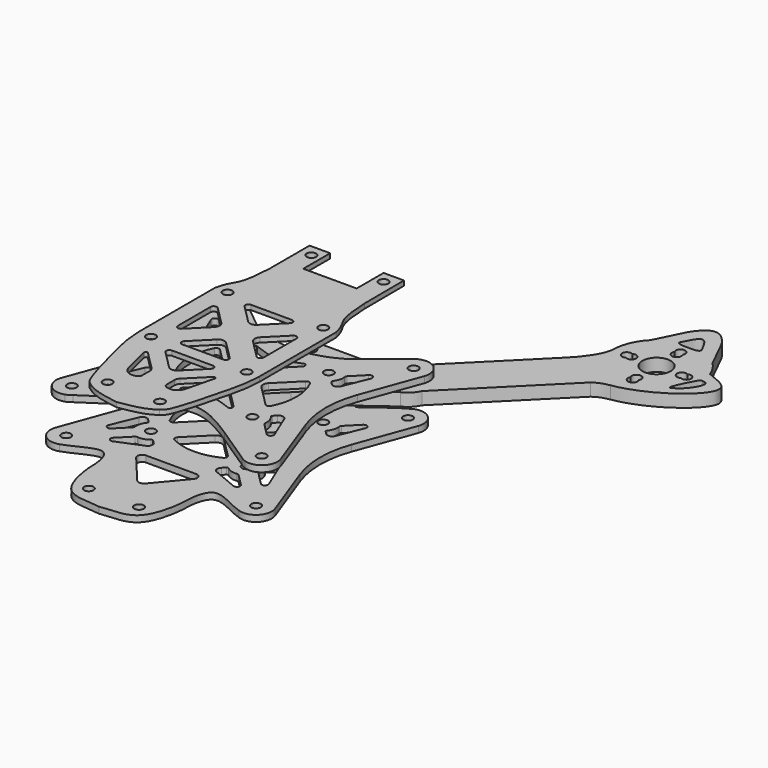
from build123d import *

# Parameters (mm, degrees)
F0_R     = 1.5
F2_DEPTH = 2
F4_START = 9
F1_R     = 1.5
F1_R_2   = 4.5
F4_DEPTH = 4
F7_START = 27
F6_R     = 1.5
F7_DEPTH = 1.5
F8_START = 13
F5_R     = 1.5
F8_DEPTH = 2


with BuildPart() as f2:
    # F0 (on Top) → F2 (new body)
    with BuildSketch(Plane.XY):
        with BuildLine():
            add(Edge.make_bspline(
                [(-28.6583781917, 34.9897926187), (-15.5486166781, 28.1028037119), (-15.2531150875, 20.3287351618), (-15.0275807662, 35.7869569874)],
                knots=[0, 0, 0, 0, 13.3993521208, 13.3993521208, 13.3993521208, 13.3993521208], degree=3))
            ThreePointArc((-28.6583781917, 34.9897926187), (-33.8221464936, 33.7484215192), (-34.9557469237, 28.5599289301))
            Line((-34.9557469237, 28.5599289301), (-28.2756956157, 10.3132583357))
            ThreePointArc((-28.2756956157, 10.3132583357), (-26.4471685959, -0.0001237753), (-28.275620297, -10.3135192398))
            Line((-28.275620297, -10.3135192398), (-34.9643093506, -28.5841972954))
            ThreePointArc((-34.9643093506, -28.5841972954), (-33.8042472377, -33.7668376626), (-28.6342115553, -34.9818423231))
            add(Edge.make_bspline(
                [(-28.6342115553, -34.9818423231), (-24.618186279, -33.7313609326), (-16.0789970617, -27.2242334086), (-15, -36.8342951322), (-15, -39.1599717256)],
                knots=[0, 0, 0, 0, 0.5448668576, 1, 1, 1, 1], degree=3))
            add(Edge.make_bspline(
                [(-15, -39.1599717256), (-15, -41.6510662719), (-13.1815742076, -55.8873137732), (-3.711172013, -54.4448881598), (0, -55.0729185343)],
                knots=[0, 0, 0, 0, 0.5234198862, 1, 1, 1, 1], degree=3))
            add(Edge.make_bspline(
                [(14.9999991171, -39.1548253089), (14.9999991171, -41.6510662713), (13.182812541, -55.8861981445), (3.7108230399, -54.4449472154), (0, -55.0729185343)],
                knots=[0, 0, 0, 0, 0.5234647005, 1, 1, 1, 1], degree=3))
            add(Edge.make_bspline(
                [(28.6583781917, -34.9900259491), (24.6324091286, -33.7351416581), (16.1017292361, -27.2449478935), (14.9999991171, -36.8342951322), (14.9999991171, -39.1548253089)],
                knots=[0, 0, 0, 0, 0.5451839423, 1, 1, 1, 1], degree=3))
            ThreePointArc((28.6583781917, -34.9900259491), (33.8221464936, -33.7486548496), (34.9557469237, -28.5601622605))
            Line((34.9557469237, -28.5601622605), (28.2756956157, -10.3134916662))
            ThreePointArc((28.2756956157, -10.3134916662), (26.4471685959, -0.0001095551), (28.275620297, 10.3132859094))
            Line((28.275620297, 10.3132859094), (34.9643093506, 28.5839639649))
            ThreePointArc((34.9643093506, 28.5839639649), (33.8042472377, 33.7666043322), (28.6342115553, 34.9816089927))
            add(Edge.make_bspline(
                [(15.0274804489, 35.7867377657), (15.2513136065, 20.3288391518), (15.5247895094, 28.1030653878), (28.6342115553, 34.9816089927)],
                knots=[0.5358735163, 0.5358735163, 0.5358735163, 0.5358735163, 13.9139571898, 13.9139571898, 13.9139571898, 13.9139571898], degree=3))
            Line((15.0274804489, 35.7867377657), (15.004580659, 45.7622549241))
            ThreePointArc((15.004580659, 45.7622549241), (14.417175329, 47.1734995991), (13.0045859288, 47.7576637377))
            Line((13.0045859288, 47.7576637377), (0, 47.7576637377))
            Line((0, 47.7576637377), (-13.0046027346, 47.7576637377))
            ThreePointArc((-13.0046027346, 47.7576637377), (-14.4171861725, 47.1735055476), (-15.0045974261, 45.7622717685))
            Line((-15.0045974261, 45.7622717685), (-15.0275807662, 35.7869569874))
        make_face()
        with Locations((-30.25, -30.2501166652)):
            Circle(F0_R, mode=Mode.SUBTRACT)
        with Locations((-7.9883679544, -49.0513862836)):
            Circle(F0_R, mode=Mode.SUBTRACT)
        with BuildLine():
            ThreePointArc((-23.8517090122, -20.3162917715), (-25.1141961389, -20.44078145), (-25.4828700073, -19.2269235489))
            Line((-25.4828700073, -19.2269235489), (-22.1833207357, -11.2508054318))
            ThreePointArc((-22.1833207357, -11.2508054318), (-21.0902108457, -10.3530865374), (-19.736579243, -10.7635374222))
            Line((-19.736579243, -10.7635374222), (-18.8553009264, -11.6448157387))
            ThreePointArc((-18.8553009264, -11.6448157387), (-18.7090370991, -11.9848506739), (-18.8367068235, -12.3322946346))
            Line((-18.8367068235, -12.3322946346), (-18.8542943682, -12.3518952957))
            ThreePointArc((-18.8542943682, -12.3518952957), (-19.6877326512, -13.9473680649), (-19.8489637612, -15.7401751538))
            Line((-19.8489637612, -15.7401751538), (-19.8303976916, -15.855047168))
            ThreePointArc((-19.8303976916, -15.855047168), (-19.8571321349, -16.2053481855), (-20.0404595752, -16.5050423346))
            Line((-20.0404595752, -16.5050423346), (-23.8517090122, -20.3162917715))
        make_face(mode=Mode.SUBTRACT)
        with BuildLine():
            Line((-11.2506887665, -22.183437401), (-19.2268068836, -25.4829866726))
            ThreePointArc((-19.2268068836, -25.4829866726), (-20.4406647847, -25.1143128042), (-20.3161751062, -23.8518256775))
            Line((-20.3161751062, -23.8518256775), (-16.5049256693, -20.0405762405))
            ThreePointArc((-16.5049256693, -20.0405762405), (-16.2052315202, -19.8572488002), (-15.8549305027, -19.8305143569))
            Line((-15.8549305027, -19.8305143569), (-15.7400584885, -19.8490804265))
            ThreePointArc((-15.7400584885, -19.8490804265), (-13.9472513996, -19.6878493165), (-12.3517786304, -18.8544110335))
            Line((-12.3517786304, -18.8544110335), (-12.3321779693, -18.8368234888))
            ThreePointArc((-12.3321779693, -18.8368234888), (-11.9847340086, -18.7091537644), (-11.6446990734, -18.8554175917))
            Line((-11.6446990734, -18.8554175917), (-10.7634207569, -19.7366959083))
            ThreePointArc((-10.7634207569, -19.7366959083), (-10.3529698721, -21.090327511), (-11.2506887665, -22.183437401))
        make_face(mode=Mode.SUBTRACT)
        with Locations((-15.25, -15.2501166652)):
            Circle(F0_R, mode=Mode.SUBTRACT)
        with BuildLine():
            ThreePointArc((-7.7891662678, -15.2385185844), (-8.2896004475, -14.5054745068), (-8.0070904439, -13.6640613586))
            Line((-8.0070904439, -13.6640613586), (-1.4142135624, -7.0711844771))
            ThreePointArc((-1.4142135624, -7.0711844771), (0, -6.4853980395), (1.4142135624, -7.0711844771))
            Line((1.4142135624, -7.0711844771), (8.0039929944, -13.6609639091))
            ThreePointArc((8.0039929944, -13.6609639091), (8.287442711, -14.5051758495), (7.7853439372, -15.2406582515))
            Line((7.7853439372, -15.2406582515), (7.7684472975, -15.2501166652))
            ThreePointArc((7.7684472975, -15.2501166652), (0, -17.1147675064), (-7.7684472975, -15.2501166652))
            Line((-7.7684472975, -15.2501166652), (-7.7891662678, -15.2385185844))
        make_face(mode=Mode.SUBTRACT)
        with Locations((7.9887419921, -49.0510061511)):
            Circle(F0_R, mode=Mode.SUBTRACT)
        with BuildLine():
            Line((-1.3419333826, -38.0912425724), (-9.1892145959, -28.7162793043))
            ThreePointArc((-9.1892145959, -28.7162793043), (-9.3980651634, -27.1187373235), (-8.0389859823, -26.2534843436))
            Line((-8.0389859823, -26.2534843436), (8.0389859824, -26.2534843436))
            ThreePointArc((8.0389859824, -26.2534843436), (9.3980651635, -27.1187373235), (9.1892145961, -28.7162793043))
            Line((9.1892145961, -28.7162793043), (1.3419333826, -38.0912425724))
            ThreePointArc((1.3419333826, -38.0912425724), (0, -38.717981785), (-1.3419333826, -38.0912425724))
        make_face(mode=Mode.SUBTRACT)
        with Locations((30.25, -30.2501166652)):
            Circle(F0_R, mode=Mode.SUBTRACT)
        with BuildLine():
            ThreePointArc((20.3161751064, -23.8518256775), (20.4406647849, -25.1143128042), (19.2268068838, -25.4829866726))
            Line((19.2268068838, -25.4829866726), (11.2506887667, -22.183437401))
            ThreePointArc((11.2506887667, -22.183437401), (10.3529698723, -21.090327511), (10.7634207571, -19.7366959083))
            Line((10.7634207571, -19.7366959083), (11.6446990736, -18.8554175917))
            ThreePointArc((11.6446990736, -18.8554175917), (11.9847340088, -18.7091537644), (12.3321779695, -18.8368234889))
            Line((12.3321779695, -18.8368234889), (12.3517786306, -18.8544110335))
            ThreePointArc((12.3517786306, -18.8544110335), (13.9472513998, -19.6878493165), (15.7400584887, -19.8490804265))
            Line((15.7400584887, -19.8490804265), (15.8549305029, -19.8305143569))
            ThreePointArc((15.8549305029, -19.8305143569), (16.2052315204, -19.8572488002), (16.5049256694, -20.0405762405))
            Line((16.5049256694, -20.0405762405), (20.3161751064, -23.8518256775))
        make_face(mode=Mode.SUBTRACT)
        with Locations((15.25, -15.2501166652)):
            Circle(F0_R, mode=Mode.SUBTRACT)
        with BuildLine():
            ThreePointArc((19.7365792431, -10.7635374222), (21.0902108459, -10.3530865374), (22.1833207359, -11.2508054318))
            Line((22.1833207359, -11.2508054318), (25.4828700075, -19.2269235489))
            ThreePointArc((25.4828700075, -19.2269235489), (25.1141961391, -20.44078145), (23.8517090123, -20.3162917715))
            Line((23.8517090123, -20.3162917715), (20.0404595754, -16.5050423345))
            ThreePointArc((20.0404595754, -16.5050423345), (19.8571321351, -16.2053481855), (19.8303976918, -15.855047168))
            Line((19.8303976918, -15.855047168), (19.8489637614, -15.7401751538))
            ThreePointArc((19.8489637614, -15.7401751538), (19.6877326514, -13.9473680649), (18.8542943684, -12.3518952957))
            Line((18.8542943684, -12.3518952957), (18.8367068237, -12.3322946346))
            ThreePointArc((18.8367068237, -12.3322946346), (18.7090370992, -11.9848506739), (18.8553009266, -11.6448157387))
            Line((18.8553009266, -11.6448157387), (19.7365792431, -10.7635374222))
        make_face(mode=Mode.SUBTRACT)
        with BuildLine():
            ThreePointArc((-18.8367068237, 12.3320613042), (-18.7090370992, 11.9846173435), (-18.8553009266, 11.6445824083))
            Line((-18.8553009266, 11.6445824083), (-19.7365362913, 10.7633470436))
            ThreePointArc((-19.7365362913, 10.7633470436), (-21.0901761322, 10.3528977995), (-22.1832842059, 11.2506305772))
            Line((-22.1832842059, 11.2506305772), (-25.4825923023, 19.2264185813))
            ThreePointArc((-25.4825923023, 19.2264185813), (-25.1139094958, 20.4402692432), (-23.8514270259, 20.3157764546))
            Line((-23.8514270259, 20.3157764546), (-20.0404595754, 16.5048090041))
            ThreePointArc((-20.0404595754, 16.5048090041), (-19.8571321351, 16.2051148551), (-19.8303976918, 15.8548138375))
            Line((-19.8303976918, 15.8548138375), (-19.8489637614, 15.7399418234))
            ThreePointArc((-19.8489637614, 15.7399418234), (-19.6877326514, 13.9471347345), (-18.8542943684, 12.3516619653))
            Line((-18.8542943684, 12.3516619653), (-18.8367068237, 12.3320613042))
        make_face(mode=Mode.SUBTRACT)
        with BuildLine():
            ThreePointArc((-13.6608472446, -8.003992994), (-14.5036917812, -8.2876310143), (-15.2391898189, -7.7877509525))
            Line((-15.2391898189, -7.7877509525), (-15.25, -7.7685639629))
            ThreePointArc((-15.25, -7.7685639629), (-17.1146508411, -0.0001166652), (-15.25, 7.7683306325))
            Line((-15.25, 7.7683306325), (-15.2404918609, 7.7853161021))
            ThreePointArc((-15.2404918609, 7.7853161021), (-14.5050397719, 8.2874058078), (-13.6608472436, 8.0039929945))
            Line((-13.6608472436, 8.0039929945), (-7.0710678122, 1.4142135631))
            ThreePointArc((-7.0710678122, 1.4142135631), (-6.4852813746, 7e-10), (-7.0710678122, -1.4142135616))
            Line((-7.0710678122, -1.4142135616), (-13.6608472446, -8.003992994))
        make_face(mode=Mode.SUBTRACT)
        with Locations((-15.25, 15.2498833348)):
            Circle(F0_R, mode=Mode.SUBTRACT)
        with Locations((-30.25, 30.2498833348)):
            Circle(F0_R, mode=Mode.SUBTRACT)
        with BuildLine():
            ThreePointArc((-7.7684472975, 20.1190520582), (-9.4080875359, 20.738653917), (-8.9382902045, 22.4273270773))
            Line((-8.9382902045, 22.4273270773), (-1.0607341799, 27.3555574137))
            ThreePointArc((-1.0607341799, 27.3555574137), (0, 27.6600212154), (1.0607341798, 27.3555574137))
            Line((1.0607341798, 27.3555574137), (8.9382902045, 22.4273270773))
            ThreePointArc((8.9382902045, 22.4273270773), (9.4121419995, 20.7467834584), (7.7853439372, 20.1125197568))
            ThreePointArc((7.7853439372, 20.1125197568), (0.0090577, 21.5667556739), (-7.7684472975, 20.1190520582))
        make_face(mode=Mode.SUBTRACT)
        with Locations((-11.5, 43.9576637377)):
            Circle(F0_R, mode=Mode.SUBTRACT)
        with BuildLine():
            Line((7.0711844771, 1.4142135624), (13.6609192274, 8.0039483127))
            ThreePointArc((13.6609192274, 8.0039483127), (14.505066125, 8.2873761908), (15.2404918613, 7.7853161015))
            Line((15.2404918613, 7.7853161015), (15.25, 7.7683306325))
            ThreePointArc((15.25, 7.7683306325), (17.1146508411, -0.0001166652), (15.25, -7.7685639629))
            Line((15.25, -7.7685639629), (15.2406272112, -7.7853078356))
            ThreePointArc((15.2406272112, -7.7853078356), (14.5051455326, -8.2874101247), (13.6609319284, -8.0039610137))
            Line((13.6609319284, -8.0039610137), (7.0711844771, -1.4142135624))
            ThreePointArc((7.0711844771, -1.4142135624), (6.4853980395, 0), (7.0711844771, 1.4142135624))
        make_face(mode=Mode.SUBTRACT)
        with BuildLine():
            ThreePointArc((7.7853439372, 15.240424921), (8.287442711, 14.5049425191), (8.0039929944, 13.6607305787))
            Line((8.0039929944, 13.6607305787), (1.4142135624, 7.0709511466))
            ThreePointArc((1.4142135624, 7.0709511466), (0, 6.485164709), (-1.4142135624, 7.0709511466))
            Line((-1.4142135624, 7.0709511466), (-8.0039526994, 13.6606902837))
            ThreePointArc((-8.0039526994, 13.6606902837), (-8.2874146408, 14.5049386339), (-7.7852942122, 15.2404527562))
            Line((-7.7852942122, 15.2404527562), (-7.7684472975, 15.2498833348))
            ThreePointArc((-7.7684472975, 15.2498833348), (0, 17.1145341759), (7.7684472975, 15.2498833348))
            Line((7.7684472975, 15.2498833348), (7.7853439372, 15.240424921))
        make_face(mode=Mode.SUBTRACT)
        with Locations((15.25, 15.2498833348)):
            Circle(F0_R, mode=Mode.SUBTRACT)
        with BuildLine():
            Line((19.8247636463, 15.7857020095), (19.8053771981, 15.9004384214))
            ThreePointArc((19.8053771981, 15.9004384214), (19.8296077774, 16.2509215341), (20.0107889822, 16.551918053))
            Line((20.0107889822, 16.551918053), (23.8084963092, 20.4042927407))
            ThreePointArc((23.8084963092, 20.4042927407), (25.0694330234, 20.5382137296), (25.4479640984, 19.3280028167))
            Line((25.4479640984, 19.3280028167), (22.2099603067, 11.3048808763))
            ThreePointArc((22.2099603067, 11.3048808763), (21.1235519909, 10.3975106284), (19.7659171564, 10.7980495795))
            Line((19.7659171564, 10.7980495795), (18.8636943539, 11.6874693336))
            ThreePointArc((18.8636943539, 11.6874693336), (18.7150142286, 12.0261665213), (18.8398119888, 12.3743720407))
            Line((18.8398119888, 12.3743720407), (18.8575930357, 12.3945216077))
            ThreePointArc((18.8575930357, 12.3945216077), (19.6770690669, 13.9943151832), (19.8247636463, 15.7857020095))
        make_face(mode=Mode.SUBTRACT)
        with Locations((11.5, 43.9576637377)):
            Circle(F0_R, mode=Mode.SUBTRACT)
        with Locations((30.25, 30.2498833348)):
            Circle(F0_R, mode=Mode.SUBTRACT)
    extrude(amount=F2_DEPTH)


with BuildPart() as f4:
    # F1 (on Top) → F4 (new body)
    with BuildSketch(Plane.XY.offset(F4_START)):
        with BuildLine():
            add(Edge.make_bspline(
                [(53.8403756487, 63.7304752458), (55.416769934, 65.2037108877), (59.7647969246, 70.0172054505), (60.2543953395, 74.245)],
                knots=[0, 0, 0, 0, 12.3164475155, 12.3164475155, 12.3164475155, 12.3164475155], degree=3))
            Line((53.8403756487, 63.7304752458), (27.2135911477, 37.1036907448))
            ThreePointArc((27.2135911477, 37.1036907448), (24.9560944806, 35.5533008589), (23.4057045947, 33.2958041918))
            Line((23.4057045947, 33.2958041918), (13.6185183249, 19.9730840161))
            ThreePointArc((13.6185183249, 19.9730840161), (11.3998018999, 18.428606374), (10.3093393921, 15.9549440526))
            Line((10.3093393921, 15.9549440526), (6.3693953395, 12.015))
            Line((6.3693953395, 12.015), (0.0093953395, 5.655))
            Line((0.0093953395, 5.655), (0.0093953395, 0))
            Line((0.0093953395, 0), (5.6643953395, 0))
            Line((5.6643953395, 0), (12.0243953395, 6.36))
            Line((12.0243953395, 6.36), (15.964339392, 10.2999440526))
            ThreePointArc((15.964339392, 10.2999440526), (18.4380017135, 11.3904065604), (19.9824793556, 13.6091229854))
            Line((19.9824793556, 13.6091229854), (33.3051995313, 23.3963092552))
            ThreePointArc((33.3051995313, 23.3963092552), (35.5626961984, 24.9466991411), (37.1130860843, 27.2041958082))
            Line((37.1130860843, 27.2041958082), (66.9401645076, 57.0312742315))
            add(Edge.make_bspline(
                [(66.9401645076, 57.0312742315), (68.6477067804, 58.2756902015), (70.0108799076, 58.6081723607), (71.7741356677, 58.9447283697)],
                knots=[0, 0, 0, 0, 5.1989021836, 5.1989021836, 5.1989021836, 5.1989021836], degree=3))
            add(Edge.make_bspline(
                [(87.3744447875, 79.1301102834), (90.2940253606, 77.9256662064), (101.094192454, 74.7425524374), (82.4600401258, 60.5968105531), (71.7741356677, 58.9447283697)],
                knots=[0, 0, 0, 0, 0.3577567319, 1, 1, 1, 1], degree=3))
            ThreePointArc((87.3744447875, 79.1301102834), (86.0340756952, 81.8106546787), (84.1538902761, 84.1444949366))
            Line((84.1538902761, 84.1444949366), (79.5043953395, 93.5436398484))
            add(Edge.make_bspline(
                [(69.0043953395, 93.5436398484), (70.5043953395, 95.8870138718), (74.2543953395, 99.6029861282), (78.0043953395, 95.8870138718), (79.5043953395, 93.5436398484)],
                knots=[0, 0, 0, 0, 0.5, 1, 1, 1, 1], degree=3))
            Line((69.0043953395, 93.5436398484), (64.3549004029, 84.1444949366))
            ThreePointArc((64.3549004029, 84.1444949366), (61.3200818843, 79.6025680531), (60.2543953395, 74.245))
        make_face()
        with Locations((15.2593953395, 15.25)):
            Circle(F1_R, mode=Mode.SUBTRACT)
        with Locations((30.2593953395, 30.25)):
            Circle(F1_R, mode=Mode.SUBTRACT)
        with BuildLine():
            ThreePointArc((75.5534334452, 65.495), (74.2543953395, 63.245), (72.9553572338, 65.495))
            ThreePointArc((72.9553572338, 65.495), (74.2543953395, 67.745), (75.5534334452, 65.495))
        make_face(mode=Mode.SUBTRACT)
        with BuildLine():
            ThreePointArc((65.5043953395, 75.5440381057), (67.7543953395, 74.245), (65.5043953395, 72.9459618943))
            ThreePointArc((65.5043953395, 72.9459618943), (63.2543953395, 74.245), (65.5043953395, 75.5440381057))
        make_face(mode=Mode.SUBTRACT)
        with Locations((74.2543953395, 74.245)):
            Circle(F1_R_2, mode=Mode.SUBTRACT)
        with BuildLine():
            add(Edge.make_bspline(
                [(84.3233764172, 67.22047925), (83.1130451017, 66.7420174785), (87.2368096834, 74.898031412), (87.6573771238, 75.0989317894), (88.2301732404, 75.068184101)],
                knots=[0, 0, 0, 0, 0.6966488034, 1, 1, 1, 1], degree=3))
            add(Edge.make_bspline(
                [(88.2301732404, 75.068184101), (89.0356525779, 75.0120133162), (91.0430967864, 74.6448569015), (87.6032039523, 68.5030221939), (84.3233764172, 67.22047925)],
                knots=[0, 0, 0, 0, 0.3063736767, 1, 1, 1, 1], degree=3))
        make_face(mode=Mode.SUBTRACT)
        with BuildLine():
            ThreePointArc((83.0043953395, 72.9459618943), (80.7543953395, 74.245), (83.0043953395, 75.5440381057))
            ThreePointArc((83.0043953395, 75.5440381057), (85.2543953395, 74.245), (83.0043953395, 72.9459618943))
        make_face(mode=Mode.SUBTRACT)
        with BuildLine():
            ThreePointArc((75.5534334452, 82.995), (74.2543953395, 80.745), (72.9553572338, 82.995))
            ThreePointArc((72.9553572338, 82.995), (74.2543953395, 85.245), (75.5534334452, 82.995))
        make_face(mode=Mode.SUBTRACT)
        with BuildLine():
            add(Edge.make_bspline(
                [(70.7613052703, 87.8022239698), (70.880660109, 86.809372308), (74.2543953395, 86.809372308), (77.62813057, 86.809372308), (77.7474854087, 87.8022239698)],
                knots=[0, 0, 0, 0, 0.5, 1, 1, 1, 1], degree=3))
            add(Edge.make_bspline(
                [(70.7613052703, 87.8022239698), (71.9256686267, 90.1515499989), (74.2543953395, 94.8502020569), (76.5831220523, 90.1515499989), (77.7474854087, 87.8022239698)],
                knots=[0, 0, 0, 0, 0.5, 1, 1, 1, 1], degree=3))
        make_face(mode=Mode.SUBTRACT)
    extrude(amount=F4_DEPTH)


with BuildPart() as f7:
    # F6 (on Top) → F7 (new body)
    with BuildSketch(Plane.XY.offset(F7_START)):
        with BuildLine():
            add(Edge.make_bspline(
                [(-19.25, -15.2218541075), (-19.0684905374, -19.7268529833), (-17.9623264747, -24.6907042809), (-13.2785718821, -43.084666195), (-11.6053951728, -44.1968771124), (-11.0003547743, -44.5749795424)],
                knots=[0, 0, 0, 0, 0.3683029461, 0.8298524693, 1, 1, 1, 1], degree=3))
            add(Edge.make_bspline(
                [(-11.0003547743, -44.5749795424), (-7.8986920416, -46.9837644324), (-3.9995196275, -47.3454079802), (0, -48.1093942399)],
                knots=[0, 0, 0, 0, 11.5542153526, 11.5542153526, 11.5542153526, 11.5542153526], degree=3))
            add(Edge.make_bspline(
                [(11.0003547743, -44.5749795424), (7.8986920416, -46.9837644324), (3.9995196275, -47.3454079802), (0, -48.1093942399)],
                knots=[0, 0, 0, 0, 11.5542153526, 11.5542153526, 11.5542153526, 11.5542153526], degree=3))
            add(Edge.make_bspline(
                [(19.25, -15.2218541075), (19.0667337669, -19.7267716154), (17.9562925595, -24.6902276301), (13.2790290127, -43.0847539077), (11.6055152346, -44.1969091306), (11.0003547743, -44.5749795424)],
                knots=[0, 0, 0, 0, 0.368314136, 0.829851714, 1, 1, 1, 1], degree=3))
            Line((19.25, -15.2218541075), (19.25, 15.2781458925))
            add(Edge.make_bspline(
                [(15.0790967662, 31.8597836794), (15.7273210805, 18.4148469189), (17.670676786, 22.4575338068), (19.25, 15.2781458925)],
                knots=[0.8128411452, 0.8128411452, 0.8128411452, 0.8128411452, 18.97635654, 18.97635654, 18.97635654, 18.97635654], degree=3))
            Line((15.0790967662, 31.8597836794), (15, 47.7141775191))
            Line((15, 47.7141775191), (8.5, 47.7141775191))
            Line((8.5, 47.7141775191), (8.5, 36.9908995926))
            Line((8.5, 36.9908995926), (-8.5, 36.9908995926))
            Line((-8.5, 36.9908995926), (-8.5, 47.7141775191))
            Line((-8.5, 47.7141775191), (-15.0790967662, 47.7141775191))
            Line((-15.0790967662, 47.7141775191), (-15.0790967662, 31.8597836794))
            add(Edge.make_bspline(
                [(-15.0790967662, 31.8597836794), (-15.7273210805, 18.4148469189), (-17.670676786, 22.4575338068), (-19.25, 15.2781458925)],
                knots=[0.8128411452, 0.8128411452, 0.8128411452, 0.8128411452, 18.97635654, 18.97635654, 18.97635654, 18.97635654], degree=3))
            Line((-19.25, 15.2781458925), (-19.25, -15.2218541075))
        make_face()
        with Locations((-8.3293477558, -41.1257331912)):
            Circle(F6_R, mode=Mode.SUBTRACT)
        with BuildLine():
            ThreePointArc((-11.2741795299, -22.9536277928), (-11.0338873267, -22.3989447209), (-10.4349964383, -22.4810626653))
            Line((-10.4349964383, -22.4810626653), (-4.5076118446, -28.408447259))
            ThreePointArc((-4.5076118446, -28.408447259), (-4.0740663419, -29.0572939567), (-3.9218254069, -29.8226608214))
            Line((-3.9218254069, -29.8226608214), (-3.9218254069, -32.9968597055))
            ThreePointArc((-3.9218254069, -32.9968597055), (-4.0264596985, -33.4421913215), (-4.3184659033, -33.7943290211))
            Line((-4.3184659033, -33.7943290211), (-4.4003069963, -33.8562493989))
            ThreePointArc((-4.4003069963, -33.8562493989), (-7.223873087, -34.0855754205), (-9.0722171951, -31.9387778169))
            Line((-9.0722171951, -31.9387778169), (-11.2741795299, -22.9536277928))
        make_face(mode=Mode.SUBTRACT)
        with Locations((-15.25, -15.2218541075)):
            Circle(F6_R, mode=Mode.SUBTRACT)
        with Locations((8.3288047093, -41.1259644251)):
            Circle(F6_R, mode=Mode.SUBTRACT)
        with BuildLine():
            Line((4.5076118446, -28.408447259), (10.4349123369, -22.4811467667))
            ThreePointArc((10.4349123369, -22.4811467667), (11.0338107336, -22.3990330505), (11.2740913261, -22.9537286326))
            Line((11.2740913261, -22.9537286326), (9.0718254069, -31.9387778169))
            ThreePointArc((9.0718254069, -31.9387778169), (7.2237469097, -34.0856955052), (4.4002690575, -33.8562995378))
            Line((4.4002690575, -33.8562995378), (4.3183823385, -33.7943311455))
            ThreePointArc((4.3183823385, -33.7943311455), (4.0264363662, -33.4422097633), (3.9218254069, -32.9969250614))
            Line((3.9218254069, -32.9969250614), (3.9218254069, -29.8226608214))
            ThreePointArc((3.9218254069, -29.8226608214), (4.0740663419, -29.0572939567), (4.5076118446, -28.408447259))
        make_face(mode=Mode.SUBTRACT)
        with BuildLine():
            Line((-1.4142135624, -25.3091152098), (-7.2178932188, -19.5054355534))
            ThreePointArc((-7.2178932188, -19.5054355534), (-7.4346659701, -18.4156453398), (-6.5107864376, -17.7983287722))
            Line((-6.5107864376, -17.7983287722), (6.5107864376, -17.7983287722))
            ThreePointArc((6.5107864376, -17.7983287722), (7.4346659701, -18.4156453398), (7.2178932188, -19.5054355534))
            Line((7.2178932188, -19.5054355534), (1.4142135624, -25.3091152098))
            ThreePointArc((1.4142135624, -25.3091152098), (0, -25.8949016474), (-1.4142135624, -25.3091152098))
        make_face(mode=Mode.SUBTRACT)
        with BuildLine():
            ThreePointArc((-1.4142135624, -6.1360676699), (0, -5.5502812323), (1.4142135624, -6.1360676699))
            Line((1.4142135624, -6.1360676699), (7.2178932188, -11.9397473263))
            ThreePointArc((7.2178932188, -11.9397473263), (7.4346659701, -13.0295375399), (6.5107864376, -13.6468541075))
            Line((6.5107864376, -13.6468541075), (-6.5107864376, -13.6468541075))
            ThreePointArc((-6.5107864376, -13.6468541075), (-7.4346659701, -13.0295375399), (-7.2178932188, -11.9397473263))
            Line((-7.2178932188, -11.9397473263), (-1.4142135624, -6.1360676699))
        make_face(mode=Mode.SUBTRACT)
        with Locations((15.25, -15.2218541075)):
            Circle(F6_R, mode=Mode.SUBTRACT)
        with BuildLine():
            Line((-11.9678932188, 7.2460391113), (-6.1642135624, 1.4423594549))
            ThreePointArc((-6.1642135624, 1.4423594549), (-5.5784271247, 0.0281458925), (-6.1642135624, -1.3860676699))
            Line((-6.1642135624, -1.3860676699), (-11.9678932188, -7.1897473263))
            ThreePointArc((-11.9678932188, -7.1897473263), (-13.0576834324, -7.4065200777), (-13.675, -6.4826405451))
            Line((-13.675, -6.4826405451), (-13.675, 6.5389323301))
            ThreePointArc((-13.675, 6.5389323301), (-13.0576834324, 7.4628118626), (-11.9678932188, 7.2460391113))
        make_face(mode=Mode.SUBTRACT)
        with Locations((-15.25, 15.2781458925)):
            Circle(F6_R, mode=Mode.SUBTRACT)
        with Locations((-11.4873414859, 43.9439415932)):
            Circle(F6_R, mode=Mode.SUBTRACT)
        with BuildLine():
            ThreePointArc((1.4142135624, 6.1923594549), (0, 5.6065730172), (-1.4142135624, 6.1923594549))
            Line((-1.4142135624, 6.1923594549), (-7.2178932188, 11.9960391113))
            ThreePointArc((-7.2178932188, 11.9960391113), (-7.4346659701, 13.0858293249), (-6.5107864376, 13.7031458925))
            Line((-6.5107864376, 13.7031458925), (6.5107864376, 13.7031458925))
            ThreePointArc((6.5107864376, 13.7031458925), (7.4346659701, 13.0858293249), (7.2178932188, 11.9960391113))
            Line((7.2178932188, 11.9960391113), (1.4142135624, 6.1923594549))
        make_face(mode=Mode.SUBTRACT)
        with BuildLine():
            Line((11.9678932188, -7.1897473263), (6.1642135624, -1.3860676699))
            ThreePointArc((6.1642135624, -1.3860676699), (5.5784271247, 0.0281458925), (6.1642135624, 1.4423594549))
            Line((6.1642135624, 1.4423594549), (11.9678932188, 7.2460391113))
            ThreePointArc((11.9678932188, 7.2460391113), (13.0576834324, 7.4628118626), (13.675, 6.5389323301))
            Line((13.675, 6.5389323301), (13.675, -6.4826405451))
            ThreePointArc((13.675, -6.4826405451), (13.0576834324, -7.4065200777), (11.9678932188, -7.1897473263))
        make_face(mode=Mode.SUBTRACT)
        with Locations((15.25, 15.2781458925)):
            Circle(F6_R, mode=Mode.SUBTRACT)
        with Locations((11.5088429302, 43.9721830189)):
            Circle(F6_R, mode=Mode.SUBTRACT)
    extrude(amount=F7_DEPTH)


with BuildPart() as f8:
    # F5 (on Top) → F8 (new body)
    with BuildSketch(Plane.XY.offset(F8_START)):
        with BuildLine():
            ThreePointArc((-26.9407032856, 36.2600348998), (-27.7551557637, 36.8489935616), (-28.6709446924, 37.2631623465))
            ThreePointArc((-28.6709446924, 37.2631623465), (-33.8348197995, 36.0222356117), (-34.9688667131, 30.8338405921))
            Line((-34.9688667131, 30.8338405921), (-28.2886697962, 12.5867673035))
            ThreePointArc((-28.2886697962, 12.5867673035), (-26.4601436815, 2.2733832229), (-28.2885975317, -8.0400136697))
            Line((-28.2885975317, -8.0400136697), (-34.9770950156, -26.3101566446))
            ThreePointArc((-34.9770950156, -26.3101566446), (-33.8176199057, -31.4929283694), (-28.6477218702, -32.7085185901))
            ThreePointArc((-28.6477218702, -32.7085185901), (-27.7339748711, -32.2898641192), (-26.9224202046, -31.6969187864))
            Line((-26.9224202046, -31.6969187864), (-15.2629743804, -23.98008234))
            add(Edge.make_bspline(
                [(-15.2629743804, -23.98008234), (-10.179641047, -20.7141435083), (-0.0129743803, -14.1822658449), (10.1536922863, -20.7141435083), (15.2370256196, -23.98008234)],
                knots=[0, 0, 0, 0, 0.5, 1, 1, 1, 1], degree=3))
            Line((15.2370256196, -23.98008234), (26.9147545249, -31.7132548104))
            ThreePointArc((26.9147545249, -31.7132548104), (27.7292070029, -32.3022134723), (28.6449959317, -32.7163822571))
            ThreePointArc((28.6449959317, -32.7163822571), (33.8088710387, -31.4754555224), (34.9429179524, -26.2870605027))
            Line((34.9429179524, -26.2870605027), (28.2627210354, -8.0399872141))
            ThreePointArc((28.2627210354, -8.0399872141), (26.4341949208, 2.2733968665), (28.2626487709, 12.586793759))
            Line((28.2626487709, 12.586793759), (34.9511462548, 30.8569367339))
            ThreePointArc((34.9511462548, 30.8569367339), (33.7916711449, 36.0397084588), (28.6217731094, 37.2552986795))
            ThreePointArc((28.6217731094, 37.2552986795), (27.7080261104, 36.8366442085), (26.8964714439, 36.2436988758))
            Line((26.8964714439, 36.2436988758), (15.2212491446, 26.7733900447))
            add(Edge.make_bspline(
                [(-15.2787508554, 26.7733900447), (-10.8797858751, 23.8265282552), (-0.0532688862, 20.1720392091), (10.8797858751, 23.8112762216), (15.2212491446, 26.7733900447)],
                knots=[0, 0, 0, 0, 0.5000467941, 1, 1, 1, 1], degree=3))
            Line((-15.2787508554, 26.7733900447), (-26.9407032856, 36.2600348998))
        make_face()
        with Locations((-30.2629743804, -27.9766099553)):
            Circle(F5_R, mode=Mode.SUBTRACT)
        with BuildLine():
            ThreePointArc((-23.8489069176, -18.0427905908), (-25.1113940444, -18.1672802692), (-25.4800679128, -16.9534223681))
            Line((-25.4800679128, -16.9534223681), (-22.1805186412, -8.977304251))
            ThreePointArc((-22.1805186412, -8.977304251), (-21.0874087512, -8.0795853567), (-19.7337771484, -8.4900362414))
            Line((-19.7337771484, -8.4900362414), (-18.8524988319, -9.3713145579))
            ThreePointArc((-18.8524988319, -9.3713145579), (-18.7062350045, -9.7113494932), (-18.833904729, -10.0587934538))
            Line((-18.833904729, -10.0587934538), (-18.8514922737, -10.0783941149))
            ThreePointArc((-18.8514922737, -10.0783941149), (-19.6849305567, -11.6738668841), (-19.8461616667, -13.466673973))
            Line((-19.8461616667, -13.466673973), (-19.8275955971, -13.5815459872))
            ThreePointArc((-19.8275955971, -13.5815459872), (-19.8543300404, -13.9318470047), (-20.0376574807, -14.2315411538))
            Line((-20.0376574807, -14.2315411538), (-23.8489069176, -18.0427905908))
        make_face(mode=Mode.SUBTRACT)
        with Locations((-15.2471979054, -12.9766154845)):
            Circle(F5_R, mode=Mode.SUBTRACT)
        with BuildLine():
            ThreePointArc((-13.6600131315, -5.726668306), (-14.5041657047, -6.0102947774), (-15.2397532199, -5.5083500098))
            Line((-15.2397532199, -5.5083500098), (-15.2471979054, -5.4950572526))
            ThreePointArc((-15.2471979054, -5.4950572526), (-17.1135691016, 2.2733900447), (-15.2471979054, 10.041837342))
            Line((-15.2471979054, 10.041837342), (-15.24273859, 10.0498062874))
            ThreePointArc((-15.24273859, 10.0498062874), (-14.5073304159, 10.552013774), (-13.6630765854, 10.2686888511))
            Line((-13.6630765854, 10.2686888511), (-7.0780798423, 3.683692108))
            ThreePointArc((-7.0780798423, 3.683692108), (-6.4922934046, 2.2694785456), (-7.0780798423, 0.8552649832))
            Line((-7.0780798423, 0.8552649832), (-13.6600131315, -5.726668306))
        make_face(mode=Mode.SUBTRACT)
        with Locations((30.2370256196, -27.9766099553)):
            Circle(F5_R, mode=Mode.SUBTRACT)
        with BuildLine():
            ThreePointArc((-7.7816537569, -12.9591669623), (-8.2829493322, -12.2265343934), (-8.001034186, -11.3847674512))
            Line((-8.001034186, -11.3847674512), (-1.427727924, -4.8034136383))
            ThreePointArc((-1.427727924, -4.8034136383), (-0.0138729894, -4.2167621451), (1.4006986714, -4.801683308))
            Line((1.4006986714, -4.801683308), (7.9815684526, -11.37450613))
            ThreePointArc((7.9815684526, -11.37450613), (8.2654849902, -12.2193895506), (7.7626098224, -12.9552925065))
            Line((7.7626098224, -12.9552925065), (7.7244458087, -12.9766154845))
            add(Edge.make_bspline(
                [(-7.7503945694, -12.9766154845), (-5.1645959639, -11.9759777802), (0.0020637685, -9.9766130491), (5.1519589479, -11.9772519711), (7.7244458087, -12.9766154845)],
                knots=[0, 0, 0, 0, 0.5004778212, 1, 1, 1, 1], degree=3))
            Line((-7.7503945694, -12.9766154845), (-7.7816537569, -12.9591669623))
        make_face(mode=Mode.SUBTRACT)
        with Locations((15.2528020946, -12.9766154845)):
            Circle(F5_R, mode=Mode.SUBTRACT)
        with BuildLine():
            Line((7.0557704686, 3.6852806441), (13.6380885864, 10.267598762))
            ThreePointArc((13.6380885864, 10.267598762), (14.4819467408, 10.5509556529), (15.2171693716, 10.0491236138))
            Line((15.2171693716, 10.0491236138), (15.2212491446, 10.041837342))
            ThreePointArc((15.2212491446, 10.041837342), (17.0876203409, 2.2733900447), (15.2212491446, -5.4950572526))
            Line((15.2212491446, -5.4950572526), (15.2156406206, -5.5050714767))
            ThreePointArc((15.2156406206, -5.5050714767), (14.4802031371, -6.0069702904), (13.6361480691, -5.7235240811))
            Line((13.6361480691, -5.7235240811), (7.0557704686, 0.8568535194))
            ThreePointArc((7.0557704686, 0.8568535194), (6.4699840309, 2.2710670817), (7.0557704686, 3.6852806441))
        make_face(mode=Mode.SUBTRACT)
        with BuildLine():
            ThreePointArc((19.7370620173, -8.4877181194), (21.0904813131, -8.0765677155), (22.1840550096, -8.9737215569))
            Line((22.1840550096, -8.9737215569), (25.4877259998, -16.9481333598))
            ThreePointArc((25.4877259998, -16.9481333598), (25.1196795178, -18.1621816342), (23.8571282218, -18.0383444417))
            Line((23.8571282218, -18.0383444417), (20.0439095917, -14.2290652158))
            ThreePointArc((20.0439095917, -14.2290652158), (19.8604272901, -13.9294658528), (19.8335118104, -13.5791786987))
            Line((19.8335118104, -13.5791786987), (19.8520185102, -13.4642971047))
            ThreePointArc((19.8520185102, -13.4642971047), (19.6898608763, -11.6715735815), (18.855598144, -10.0765317569))
            Line((18.855598144, -10.0765317569), (18.8380004718, -10.0569401879))
            ThreePointArc((18.8380004718, -10.0569401879), (18.7101512009, -9.7095622549), (18.8562392743, -9.3694517741))
            Line((18.8562392743, -9.3694517741), (19.7370620173, -8.4877181194))
        make_face(mode=Mode.SUBTRACT)
        with BuildLine():
            ThreePointArc((-18.8639492325, 14.6037202772), (-18.7360999616, 14.2563423443), (-18.8821880351, 13.9162318635))
            Line((-18.8821880351, 13.9162318635), (-19.7625740111, 13.0349354275))
            ThreePointArc((-19.7625740111, 13.0349354275), (-21.1161701038, 12.6238201487), (-22.2097049426, 13.5212719362))
            Line((-22.2097049426, 13.5212719362), (-25.5088845668, 21.4902583872))
            ThreePointArc((-25.5088845668, 21.4902583872), (-25.1406462244, 22.7041513988), (-23.8781948293, 22.5802474216))
            Line((-23.8781948293, 22.5802474216), (-20.0698583524, 18.7758453052))
            ThreePointArc((-20.0698583524, 18.7758453052), (-19.8863760509, 18.4762459421), (-19.8594605711, 18.1259587881))
            Line((-19.8594605711, 18.1259587881), (-19.8779672709, 18.0110771941))
            ThreePointArc((-19.8779672709, 18.0110771941), (-19.715809637, 16.2183536709), (-18.8815469047, 14.6233118463))
            Line((-18.8815469047, 14.6233118463), (-18.8639492325, 14.6037202772))
        make_face(mode=Mode.SUBTRACT)
        with Locations((-15.2787508554, 17.5233955738)):
            Circle(F5_R, mode=Mode.SUBTRACT)
        with BuildLine():
            ThreePointArc((7.7605848203, 17.5032086885), (8.263364843, 16.7678034482), (7.9800046348, 15.9232233093))
            Line((7.9800046348, 15.9232233093), (1.3989162185, 9.342134893))
            ThreePointArc((1.3989162185, 9.342134893), (-0.0152973439, 8.7563484554), (-1.4295109063, 9.342134893))
            Line((-1.4295109063, 9.342134893), (-8.0086569305, 15.9212809173))
            ThreePointArc((-8.0086569305, 15.9212809173), (-8.2921069909, 16.7660596794), (-7.7892590642, 17.5016812234))
            Line((-7.7892590642, 17.5016812234), (-7.7503945694, 17.5233955738))
            add(Edge.make_bspline(
                [(-7.7503945694, 17.5233955738), (-5.1779077086, 16.5240320604), (-0.0280125293, 14.5233931385), (5.1386472032, 16.5227578695), (7.7244458087, 17.5233955738)],
                knots=[0, 0, 0, 0, 0.4995221788, 1, 1, 1, 1], degree=3))
            Line((7.7244458087, 17.5233955738), (7.7605848203, 17.5032086885))
        make_face(mode=Mode.SUBTRACT)
        with Locations((-30.2629743804, 32.5233900447)):
            Circle(F5_R, mode=Mode.SUBTRACT)
        with Locations((15.2212491446, 17.5233955738)):
            Circle(F5_R, mode=Mode.SUBTRACT)
        with BuildLine():
            Line((19.8117305168, 18.0591499703), (19.7923440686, 18.1738863821))
            ThreePointArc((19.7923440686, 18.1738863821), (19.8165746479, 18.5243694949), (19.9977558528, 18.8253660138))
            Line((19.9977558528, 18.8253660138), (23.7870632046, 22.6692198102))
            ThreePointArc((23.7870632046, 22.6692198102), (25.0483834329, 22.802888901), (25.4261871567, 21.592079052))
            Line((25.4261871567, 21.592079052), (22.1822852437, 13.5755479012))
            ThreePointArc((22.1822852437, 13.5755479012), (21.0957187273, 12.6693143047), (19.738757849, 13.0699928556))
            Line((19.738757849, 13.0699928556), (18.8437490569, 13.9523009702))
            ThreePointArc((18.843749057, 13.9523009702), (18.6950486451, 14.2915917916), (18.8206537797, 14.6400934762))
            Line((18.8206537797, 14.6400934762), (18.8377348863, 14.6593574176))
            ThreePointArc((18.8377348863, 14.6593574176), (19.6625258982, 16.2624804078), (19.8117305168, 18.0591499703))
        make_face(mode=Mode.SUBTRACT)
        with Locations((30.2370256196, 32.5233900447)):
            Circle(F5_R, mode=Mode.SUBTRACT)
    extrude(amount=F8_DEPTH)


solid = Compound([f2.part, f4.part, f7.part, f8.part])
